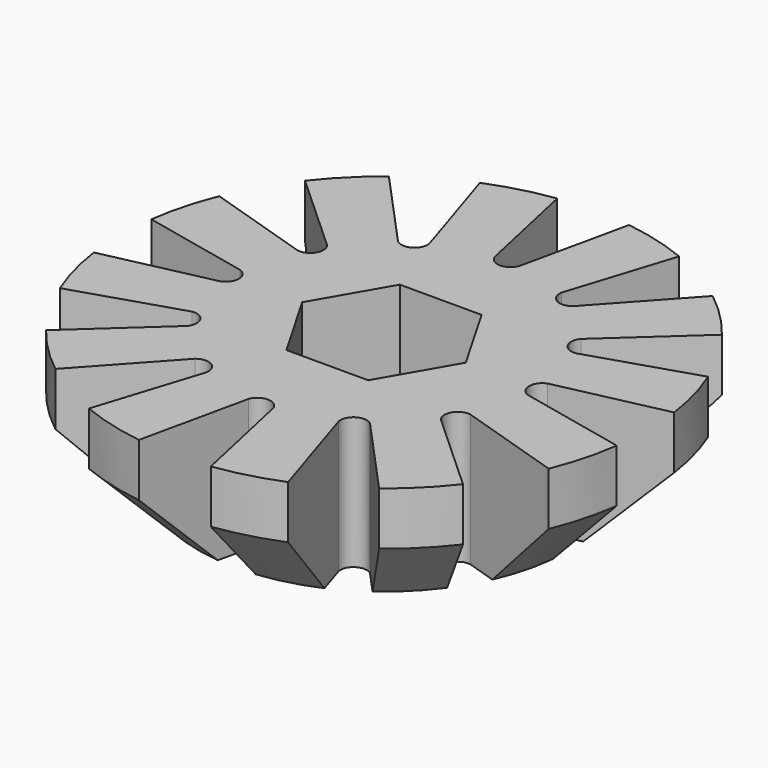
from build123d import *

# Parameters (mm, degrees)
SKETCH_R           = 10
SKETCH_R_2         = 1.55
PAD_DEPTH          = 5
POCKET_DEPTH       = 3
CHAMFER_SIZE       = 2.99
POCKET001_DEPTH    = 7
POLARPATTERN_COUNT = 12


with BuildPart() as part:
    # Sketch → Pad (new body)
    with BuildSketch(Plane.XY):
        Circle(SKETCH_R)
        Circle(SKETCH_R_2, mode=Mode.SUBTRACT)
    extrude(amount=PAD_DEPTH)

    # Sketch001 (on Face4 of Pad) → Pocket (cut)
    with BuildSketch(Plane.XY.offset(5)):
        Polygon((-1.55, -2.684679), (1.55, -2.684679), (3.1, 0), (1.55, 2.684679), (-1.55, 2.684679), (-3.1, 0), align=None)
    extrude(amount=-POCKET_DEPTH, mode=Mode.SUBTRACT)

    # Chamfer
    chamfer_edges = [part.edges().sort_by_distance(p)[0] for p in [
        (-10, 0, 0),
    ]]
    chamfer(chamfer_edges, length=CHAMFER_SIZE)

    # Sketch002 (on Face3 of Pocket) → Pocket001 (cut)
    with BuildSketch(Plane.XY.offset(5)):
        with BuildLine():
            ThreePointArc((-0.467595, 5.822927), (0, 5.5), (0.467595, 5.822927))
            Line((2, 12.822927), (0.467595, 5.822927))
            Line((-2, 12.822927), (2, 12.822927))
            Line((-0.467595, 5.822927), (-2, 12.822927))
        make_face()
    pocket001 = extrude(amount=-POCKET001_DEPTH, mode=Mode.SUBTRACT)

    # PolarPattern: Pocket001 ×12 about axis
    polarpattern_axis = Axis((0, 0, 5), (0, 0, 1))
    for i in range(1, POLARPATTERN_COUNT):
        add(pocket001.rotate(polarpattern_axis, i * 360 / POLARPATTERN_COUNT), mode=Mode.SUBTRACT)


solid = part.part
